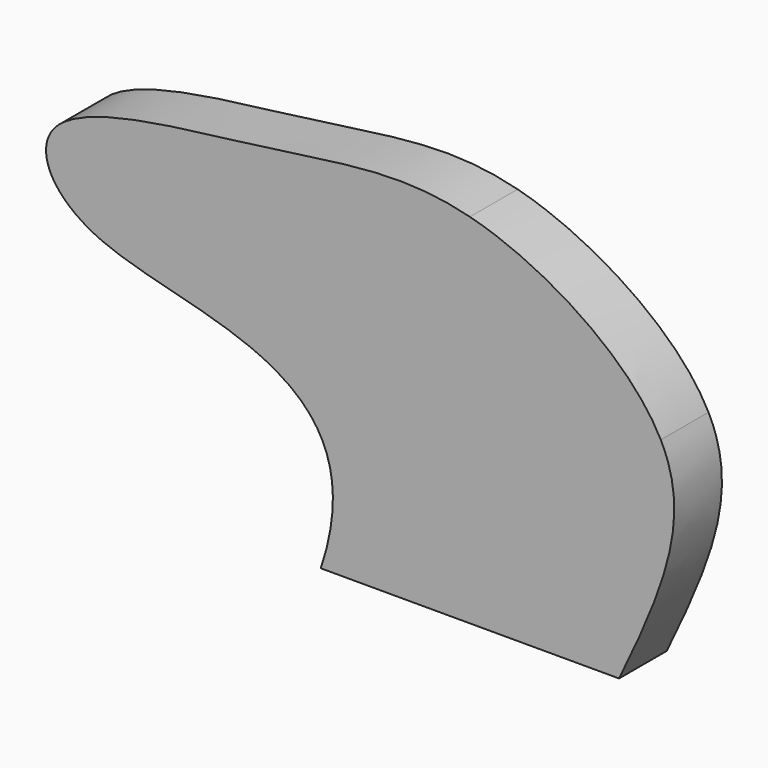
from build123d import *

# Parameters (mm, degrees)
F1_DEPTH = 5


with BuildPart() as f1:
    # F0 (on Front) → F1 (new body)
    with BuildSketch(Plane.XZ):
        with BuildLine():
            add(Edge.make_bspline(
                [(-16.2746694241, 13.3752361256), (-12.3598618618, 11.1329716306), (-10.0386444447, 7.3865768576), (-12.5, 0)],
                knots=[0.904225906, 0.904225906, 0.904225906, 0.904225906, 1, 1, 1, 1], degree=3))
            Line((-12.5, 0), (0, 0))
            Line((0, 0), (0, 12.5))
            Line((0, 12.5), (-8.75, 18.75))
            Line((-8.75, 18.75), (-16.2746694241, 13.3752361256))
        make_face()
        with BuildLine():
            add(Edge.make_bspline(
                [(0, 30), (-5.8674840792, 31.5264546669), (-15.8433075246, 29.2207215847), (-32.8722086235, 27.9759279501), (-35, 25)],
                knots=[0.3497970518, 0.3497970518, 0.3497970518, 0.3497970518, 0.5163060464, 0.6854672924, 0.6854672924, 0.6854672924, 0.6854672924], degree=3))
            Line((-35, 25), (-30.8810526687, 25))
            Line((-30.8810526687, 25), (-17.5, 25))
            Line((-17.5, 25), (0, 25))
            Line((0, 25), (0, 30))
        make_face()
        with BuildLine():
            Line((0, 18.75), (16, 18.75))
            add(Edge.make_bspline(
                [(16, 18.75), (13.4303616154, 23.7899314985), (6.2018305977, 28.3865634518), (0, 30)],
                knots=[0.1737998843, 0.1737998843, 0.1737998843, 0.1737998843, 0.3497970518, 0.3497970518, 0.3497970518, 0.3497970518], degree=3))
            Line((0, 30), (0, 25))
            Line((0, 25), (0, 18.75))
        make_face()
        with BuildLine():
            Line((0, 12.5), (0, 0))
            Line((0, 0), (12.5, 0))
            add(Edge.make_bspline(
                [(12.5, 0), (16.53182565, 8.3636820514), (18.537557056, 13.7729908565), (16, 18.75)],
                knots=[0, 0, 0, 0, 0.1737998843, 0.1737998843, 0.1737998843, 0.1737998843], degree=3))
            Line((16, 18.75), (0, 18.75))
            Line((0, 18.75), (0, 12.5))
        make_face()
        with BuildLine():
            add(Edge.make_bspline(
                [(-35, 25), (-36.4097549138, 23.0283174858), (-34.986463175, 20.0256776894), (-30.8810526687, 18.2215466751)],
                knots=[0.6854672924, 0.6854672924, 0.6854672924, 0.6854672924, 0.7975440215, 0.7975440215, 0.7975440215, 0.7975440215], degree=3))
            Line((-30.8810526687, 18.2215466751), (-35, 25))
        make_face()
        Polygon((-35, 25), (-30.8810526687, 18.2215466751), (-30.8810526687, 25), align=None)
        with BuildLine():
            add(Edge.make_bspline(
                [(-30.8810526687, 18.2215466751), (-26.9732572447, 16.5042580115), (-20.6353376436, 15.8728739705), (-16.2746694241, 13.3752361256)],
                knots=[0.7975440215, 0.7975440215, 0.7975440215, 0.7975440215, 0.904225906, 0.904225906, 0.904225906, 0.904225906], degree=3))
            Line((-16.2746694241, 13.3752361256), (-8.75, 18.75))
            Line((-8.75, 18.75), (-17.5, 25))
            Line((-17.5, 25), (-30.8810526687, 18.2215466751))
        make_face()
        Polygon((-30.8810526687, 25), (-30.8810526687, 18.2215466751), (-17.5, 25), align=None)
        Polygon((-17.5, 25), (-8.75, 18.75), (0, 25), align=None)
        Polygon((-8.75, 18.75), (0, 12.5), (0, 18.75), (0, 25), align=None)
    extrude(amount=F1_DEPTH)


solid = f1.part
